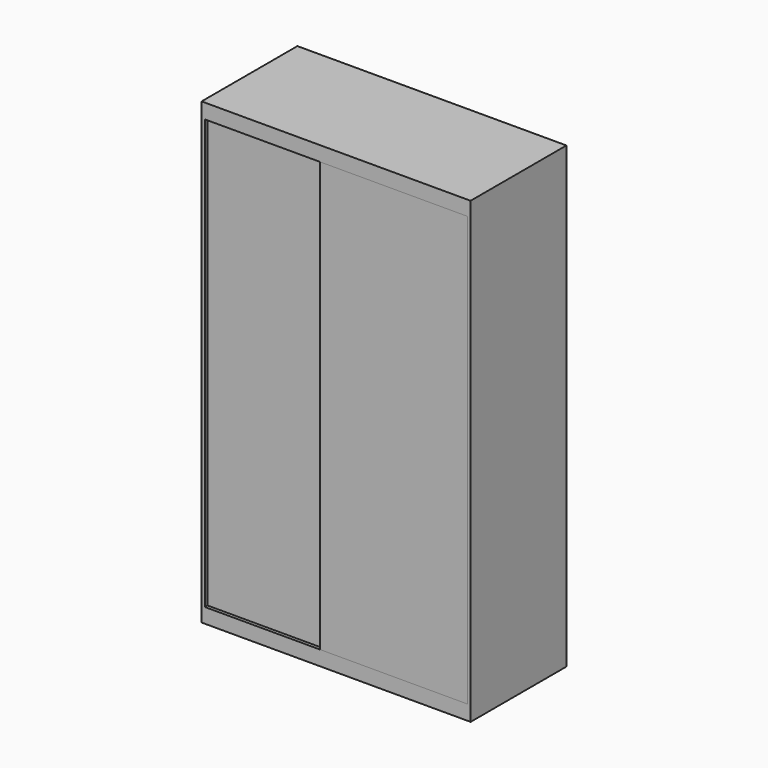
from build123d import *

# Parameters (mm, degrees)
F1_DEPTH = 2490
F2_W     = 1424
F2_H     = 2330
F3_DEPTH = 36
F4_W     = 1424
F4_H     = 450
F4_W_2   = 682
F5_DEPTH = 606
F6_W     = 18
F6_H     = 2330
F7_DEPTH = 800
F8_W     = 18
F8_H     = 2344.882574
F9_DEPTH = 800


with BuildPart() as f1:
    # F0 (on Top) → F1 (new body)
    with BuildSketch(Plane.XY):
        Polygon((-1460, 0), (0, 0), (0, 650), (-1460, 650), (-1460, 430), (-1460, 325), align=None)
    extrude(amount=F1_DEPTH)

    # F2 (on face) → F3 (cut)
    with BuildSketch(Plane.XZ):
        with Locations((-730, 1245)):
            Rectangle(F2_W, F2_H)
    extrude(amount=-F3_DEPTH, mode=Mode.SUBTRACT)

    # F4 (on face) → F5 (cut)
    with BuildSketch(Plane.XZ.offset(-36)):
        with Locations((-730, 2185)):
            Rectangle(F4_W, F4_H)
        with Locations((-359, 773)):
            Rectangle(F4_W_2, F4_H)
        Polygon((-18, 1942), (-1442, 1942), (-1442, 548), (-718, 548), (-718, 1016), (-18, 1016), align=None)
        Polygon((-18, 530), (-1442, 530), (-1442, 104.263887), (-1442, 80), (-18, 80), align=None)
    extrude(amount=-F5_DEPTH, mode=Mode.SUBTRACT)


with BuildPart() as f7:
    # F6 (on face) → F7 (new body)
    with BuildSketch(Plane(origin=(-18, 0, 0), x_dir=(0, -1, 0), z_dir=(-1, 0, 0))):
        with Locations((-9, 1245)):
            Rectangle(F6_W, F6_H)
    extrude(amount=F7_DEPTH)


with BuildPart() as f9:
    # F8 (on face) → F9 (new body)
    with BuildSketch(Plane.YZ.offset(-1442)):
        with Locations((27, 1237.558713)):
            Rectangle(F8_W, F8_H)
    extrude(amount=F9_DEPTH)


solid = Compound([f1.part, f7.part, f9.part])
